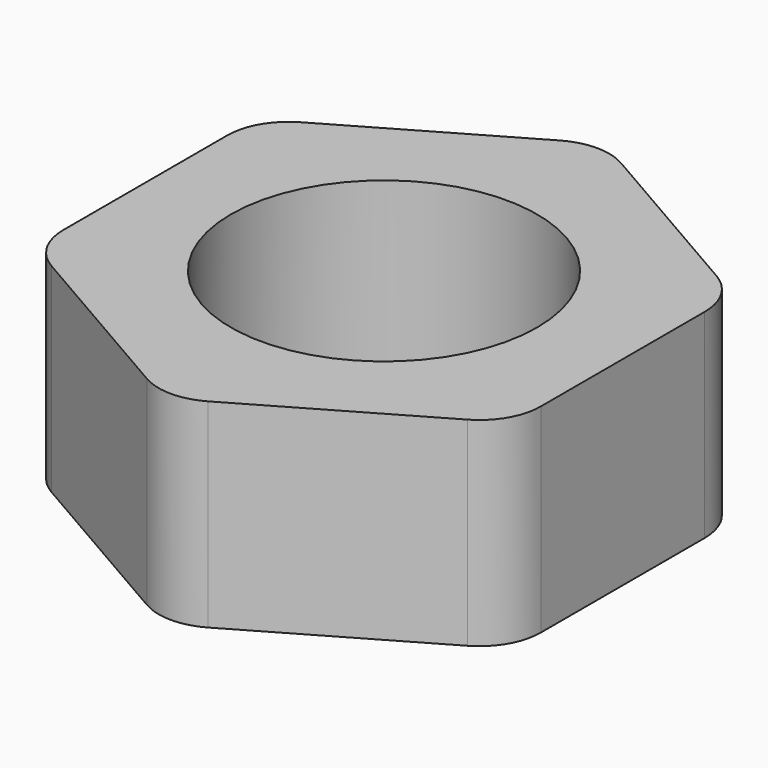
from build123d import *

# Parameters (mm, degrees)
F0_R     = 6.35
F1_DEPTH = 8.255
F2_R     = 2.54


with BuildPart() as f1:
    # F0 (on Top) → F1 (new body)
    with BuildSketch(Plane.XY):
        Polygon((9.89867, 5.715), (0, 11.43), (-9.89867, 5.715), (-9.89867, -5.715), (0, -11.43), (9.89867, -5.715), align=None)
        Circle(F0_R, mode=Mode.SUBTRACT)
    extrude(amount=F1_DEPTH)

    # F2
    f2_edges = [f1.edges().sort_by_distance(p)[0] for p in [
        (-9.89867, -5.715, 4.1275),
        (0, -11.43, 4.1275),
        (9.89867, -5.715, 4.1275),
        (9.89867, 5.715, 4.1275),
        (0, 11.43, 4.1275),
        (-9.89867, 5.715, 4.1275),
    ]]
    fillet(f2_edges, radius=F2_R)


solid = f1.part
